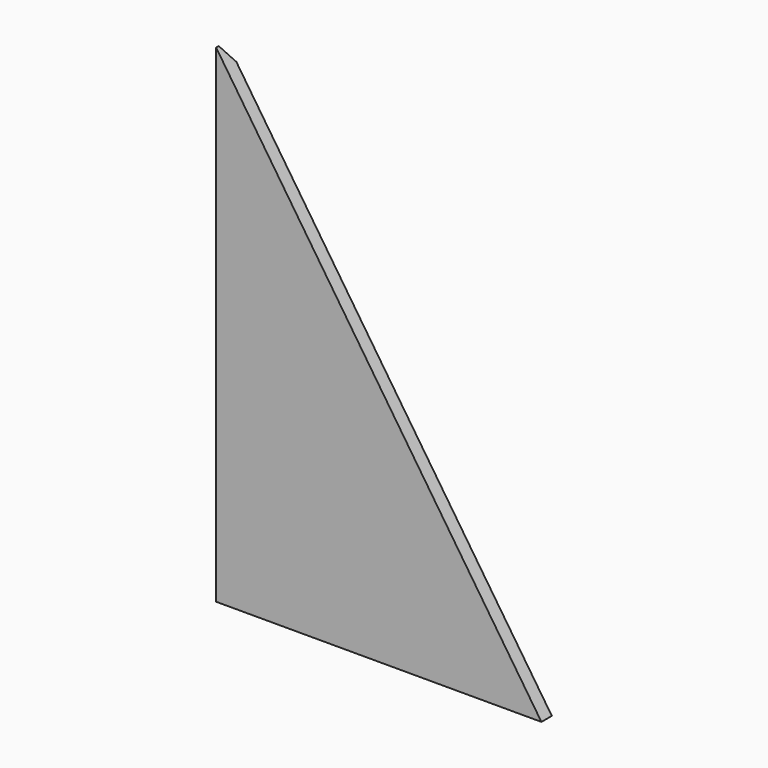
from build123d import *

# Parameters (mm, degrees)
F1_DEPTH = 2
F2_SIZE  = 1.5


with BuildPart() as f1:
    # F0 (on Front) → F1 (new body)
    with BuildSketch(Plane.XZ):
        Polygon((-50, 75), (-50, 0), (0, 0), align=None)
    extrude(amount=F1_DEPTH)

    # F2
    f2_edges = [f1.edges().sort_by_distance(p)[0] for p in [
        (-50, 0, 37.5),
    ]]
    chamfer(f2_edges, length=F2_SIZE)


solid = f1.part
